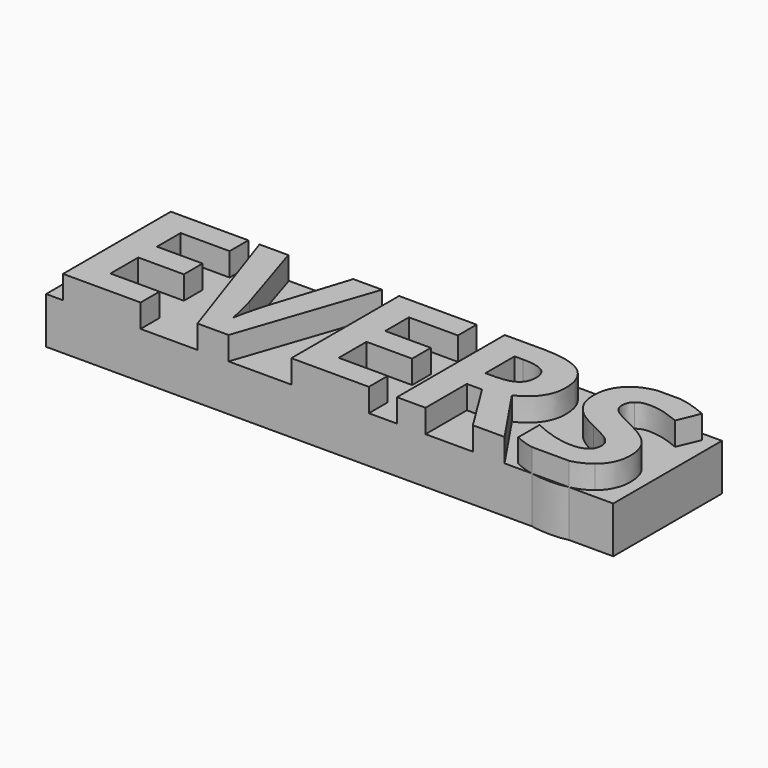
from build123d import *

# Parameters (mm, degrees)
F1_DEPTH = 20
F2_DEPTH = 30


with BuildPart() as f1:
    # F0 (on Top) → F1 (new body)
    with BuildSketch(Plane.XY):
        with BuildLine():
            Line((226.0634413067, 34.8499827087), (216.4325309619, 34.8499827087))
            add(Edge.make_bspline(
                [(206.7677307787, 30.7868890413), (210.5508569795, 33.9763129552), (216.4325309619, 34.8499827087)],
                knots=[0, 0, 0, 0.7260728655, 0.7260728655, 0.7260728655], degree=2))
            add(Edge.make_bspline(
                [(201.5573360914, 18.699026914), (201.5573360914, 26.3941840312), (206.7677307787, 30.7868890413)],
                knots=[0, 0, 0, 1, 1, 1], degree=2))
            add(Edge.make_bspline(
                [(203.1420060084, 11.5743509668), (201.5573360914, 14.6295945669), (201.5573360914, 18.699026914)],
                knots=[0, 0, 0, 1, 1, 1], degree=2))
            add(Edge.make_bspline(
                [(207.3825827065, 6.2245053268), (204.7266759255, 8.5191073667), (203.1420060084, 11.5743509668)],
                knots=[0, 0, 0, 1, 1, 1], degree=2))
            add(Edge.make_bspline(
                [(215.3376256902, 1.4324634976), (210.0384894875, 3.9299032869), (207.3825827065, 6.2245053268)],
                knots=[0, 0, 0, 1, 1, 1], degree=2))
            add(Edge.make_bspline(
                [(222.848961097, -2.491179217), (221.0044053136, -1.2678140411), (215.3376256902, 1.4324634976)],
                knots=[0, 0, 0, 1, 1, 1], degree=2))
            add(Edge.make_bspline(
                [(225.6443188307, -5.0456671233), (224.6935168805, -3.714544393), (222.848961097, -2.491179217)],
                knots=[0, 0, 0, 1, 1, 1], degree=2))
            add(Edge.make_bspline(
                [(226.595120781, -8.0755560048), (226.595120781, -6.3767898537), (225.6443188307, -5.0456671233)],
                knots=[0, 0, 0, 1, 1, 1], degree=2))
            add(Edge.make_bspline(
                [(224.4336310141, -12.6710987643), (226.595120781, -11.1307996049), (226.595120781, -8.0755560048)],
                knots=[0, 0, 0, 1, 1, 1], degree=2))
            add(Edge.make_bspline(
                [(218.2407409782, -14.2113979236), (222.2721412472, -14.2113979236), (224.4336310141, -12.6710987643)],
                knots=[0, 0, 0, 1, 1, 1], degree=2))
            add(Edge.make_bspline(
                [(210.8054697273, -13.1464997394), (214.8685633947, -14.2113979236), (218.2407409782, -14.2113979236)],
                knots=[0, 0, 0, 1, 1, 1], degree=2))
            add(Edge.make_bspline(
                [(200.8854360465, -9.4573881725), (206.74237606, -12.0816015551), (210.8054697273, -13.1464997394)],
                knots=[0, 0, 0, 1, 1, 1], degree=2))
            Line((200.8854360465, -9.4573881725), (200.8854360465, -20.8670115753))
            add(Edge.make_bspline(
                [(208.9146939264, -23.567289114), (204.6061801967, -22.6942809445), (200.8854360465, -20.8670115753)],
                knots=[0.477766543, 0.477766543, 0.477766543, 1, 1, 1], degree=2))
            Line((208.9146939264, -23.567289114), (224.9636813139, -23.567289114))
            add(Edge.make_bspline(
                [(232.9908485663, -19.8464841487), (229.7172834283, -22.4660710661), (224.9636813139, -23.567289114)],
                knots=[0, 0, 0, 0.5796214889, 0.5796214889, 0.5796214889], degree=2))
            add(Edge.make_bspline(
                [(238.6386121507, -7.479720116), (238.6386121507, -15.3270055453), (232.9908485663, -19.8464841487)],
                knots=[0, 0, 0, 1, 1, 1], degree=2))
            add(Edge.make_bspline(
                [(235.6277393083, 2.0853475035), (238.6386121507, -1.8129404925), (238.6386121507, -7.479720116)],
                knots=[0, 0, 0, 1, 1, 1], degree=2))
            add(Edge.make_bspline(
                [(224.4906791311, 9.8755848157), (232.6168664658, 5.9836354994), (235.6277393083, 2.0853475035)],
                knots=[0, 0, 0, 1, 1, 1], degree=2))
            add(Edge.make_bspline(
                [(216.7131191782, 13.9323398034), (218.3548372122, 12.8040548225), (224.4906791311, 9.8755848157)],
                knots=[0, 0, 0, 1, 1, 1], degree=2))
            add(Edge.make_bspline(
                [(214.3170982636, 16.271312601), (215.0714011441, 15.0606247844), (216.7131191782, 13.9323398034)],
                knots=[0, 0, 0, 1, 1, 1], degree=2))
            add(Edge.make_bspline(
                [(213.562795383, 19.1047024127), (213.562795383, 17.4820004177), (214.3170982636, 16.271312601)],
                knots=[0, 0, 0, 1, 1, 1], degree=2))
            add(Edge.make_bspline(
                [(215.4263672055, 23.3389404311), (213.562795383, 21.7162384361), (213.562795383, 19.1047024127)],
                knots=[0, 0, 0, 1, 1, 1], degree=2))
            add(Edge.make_bspline(
                [(220.7762128455, 24.9616424262), (217.289939028, 24.9616424262), (215.4263672055, 23.3389404311)],
                knots=[0, 0, 0, 1, 1, 1], degree=2))
            add(Edge.make_bspline(
                [(226.7345717337, 24.2073395457), (223.7046828523, 24.9616424262), (220.7762128455, 24.9616424262)],
                knots=[0, 0, 0, 1, 1, 1], degree=2))
            add(Edge.make_bspline(
                [(234.4043741323, 21.5514327647), (229.7644606151, 23.4530366652), (226.7345717337, 24.2073395457)],
                knots=[0, 0, 0, 1, 1, 1], degree=2))
            Line((234.4043741323, 21.5514327647), (238.3597102453, 31.1101617044))
            add(Edge.make_bspline(
                [(229.7834766541, 34.1146958672), (233.8846023995, 33.0497976829), (238.3597102453, 31.1101617044)],
                knots=[0, 0, 0, 1, 1, 1], degree=2))
            add(Edge.make_bspline(
                [(226.0634413067, 34.8499827087), (227.9640066407, 34.5871393946), (229.7834766541, 34.1146958672)],
                knots=[0.5563486403, 0.5563486403, 0.5563486403, 1, 1, 1], degree=2))
        make_face()
        Polygon((105.4502749612, 34.3555656946), (105.4502749612, -23.567289114), (138.8044073756, -23.567289114), (138.8044073756, -13.4254016448), (117.7346361583, -13.4254016448), (117.7346361583, 1.5085276536), (137.3465110519, 1.5085276536), (137.3465110519, 11.5743509668), (117.7346361583, 11.5743509668), (117.7346361583, 24.2897423814), (138.8044073756, 24.2897423814), (138.8044073756, 34.3555656946), align=None)
        with BuildLine():
            Line((45.4356558621, 34.3555656946), (65.0855628337, -23.567289114))
            Line((65.0855628337, -23.567289114), (78.4728542931, -23.567289114))
            Line((78.4728542931, -23.567289114), (98.1607933427, 34.3555656946))
            Line((98.1607933427, 34.3555656946), (85.7623359116, 34.3555656946))
            Line((85.7623359116, 34.3555656946), (74.7964200855, -0.1141743414))
            add(Edge.make_bspline(
                [(71.8172406414, -12.867597834), (72.2609482182, -9.2291957044), (74.7964200855, -0.1141743414)],
                knots=[0, 0, 0, 1, 1, 1], degree=2))
            add(Edge.make_bspline(
                [(70.6128915044, -7.2261729292), (71.5890481733, -11.2829279169), (71.8172406414, -12.867597834)],
                knots=[0, 0, 0, 1, 1, 1], degree=2))
            add(Edge.make_bspline(
                [(68.7366423226, -0.1141743414), (69.6367348355, -3.1694179415), (70.6128915044, -7.2261729292)],
                knots=[0, 0, 0, 1, 1, 1], degree=2))
            Line((68.7366423226, -0.1141743414), (57.8341132932, 34.3555656946))
            Line((57.8341132932, 34.3555656946), (45.4356558621, 34.3555656946))
        make_face()
        with BuildLine():
            Line((216.4325309619, 34.8499827087), (0, 34.8499827087))
            Line((0, 34.8499827087), (0, -23.567289114))
            Line((0, -23.567289114), (7.2894816185, -23.567289114))
            Line((7.2894816185, -23.567289114), (7.2894816185, 34.3555656946))
            Line((7.2894816185, 34.3555656946), (40.6436140329, 34.3555656946))
            Line((40.6436140329, 34.3555656946), (40.6436140329, 24.2897423814))
            Line((40.6436140329, 24.2897423814), (19.5738428156, 24.2897423814))
            Line((19.5738428156, 24.2897423814), (19.5738428156, 11.5743509668))
            Line((19.5738428156, 11.5743509668), (39.1857177092, 11.5743509668))
            Line((39.1857177092, 11.5743509668), (39.1857177092, 1.5085276536))
            Line((39.1857177092, 1.5085276536), (19.5738428156, 1.5085276536))
            Line((19.5738428156, 1.5085276536), (19.5738428156, -13.4254016448))
            Line((19.5738428156, -13.4254016448), (40.6436140329, -13.4254016448))
            Line((40.6436140329, -13.4254016448), (40.6436140329, -23.567289114))
            Line((40.6436140329, -23.567289114), (65.0855628337, -23.567289114))
            Line((65.0855628337, -23.567289114), (45.4356558621, 34.3555656946))
            Line((45.4356558621, 34.3555656946), (57.8341132932, 34.3555656946))
            Line((57.8341132932, 34.3555656946), (68.7366423226, -0.1141743414))
            add(Edge.make_bspline(
                [(68.7366423226, -0.1141743414), (69.6367348355, -3.1694179415), (70.6128915044, -7.2261729292)],
                knots=[0, 0, 0, 1, 1, 1], degree=2))
            add(Edge.make_bspline(
                [(70.6128915044, -7.2261729292), (71.5890481733, -11.2829279169), (71.8172406414, -12.867597834)],
                knots=[0, 0, 0, 1, 1, 1], degree=2))
            add(Edge.make_bspline(
                [(71.8172406414, -12.867597834), (72.2609482182, -9.2291957044), (74.7964200855, -0.1141743414)],
                knots=[0, 0, 0, 1, 1, 1], degree=2))
            Line((74.7964200855, -0.1141743414), (85.7623359116, 34.3555656946))
            Line((85.7623359116, 34.3555656946), (98.1607933427, 34.3555656946))
            Line((98.1607933427, 34.3555656946), (78.4728542931, -23.567289114))
            Line((78.4728542931, -23.567289114), (105.4502749612, -23.567289114))
            Line((105.4502749612, -23.567289114), (105.4502749612, 34.3555656946))
            Line((105.4502749612, 34.3555656946), (138.8044073756, 34.3555656946))
            Line((138.8044073756, 34.3555656946), (138.8044073756, 24.2897423814))
            Line((138.8044073756, 24.2897423814), (117.7346361583, 24.2897423814))
            Line((117.7346361583, 24.2897423814), (117.7346361583, 11.5743509668))
            Line((117.7346361583, 11.5743509668), (137.3465110519, 11.5743509668))
            Line((137.3465110519, 11.5743509668), (137.3465110519, 1.5085276536))
            Line((137.3465110519, 1.5085276536), (117.7346361583, 1.5085276536))
            Line((117.7346361583, 1.5085276536), (117.7346361583, -13.4254016448))
            Line((117.7346361583, -13.4254016448), (138.8044073756, -13.4254016448))
            Line((138.8044073756, -13.4254016448), (138.8044073756, -23.567289114))
            Line((138.8044073756, -23.567289114), (150.8859308233, -23.567289114))
            Line((150.8859308233, -23.567289114), (150.8859308233, 34.3555656946))
            Line((150.8859308233, 34.3555656946), (167.7594961002, 34.3555656946))
            add(Edge.make_bspline(
                [(167.7594961002, 34.3555656946), (179.5747950018, 34.3555656946), (185.2352359456, 30.0579408795)],
                knots=[0, 0, 0, 1, 1, 1], degree=2))
            add(Edge.make_bspline(
                [(185.2352359456, 30.0579408795), (190.8956768893, 25.7603160644), (190.8956768893, 17.0002607629)],
                knots=[0, 0, 0, 1, 1, 1], degree=2))
            add(Edge.make_bspline(
                [(190.8956768893, 17.0002607629), (190.8956768893, 11.8912849503), (188.0876417963, 7.9105941186)],
                knots=[0, 0, 0, 1, 1, 1], degree=2))
            add(Edge.make_bspline(
                [(188.0876417963, 7.9105941186), (185.2796067033, 3.9299032869), (180.1199214533, 1.673333325)],
                knots=[0, 0, 0, 1, 1, 1], degree=2))
            add(Edge.make_bspline(
                [(180.1199214533, 1.673333325), (193.2029562886, -17.8624774126), (197.1582924016, -23.567289114)],
                knots=[0, 0, 0, 1, 1, 1], degree=2))
            Line((197.1582924016, -23.567289114), (208.9146939264, -23.567289114))
            add(Edge.make_bspline(
                [(208.9146939264, -23.567289114), (204.6061801967, -22.6942809445), (200.8854360465, -20.8670115753)],
                knots=[0.477766543, 0.477766543, 0.477766543, 1, 1, 1], degree=2))
            Line((200.8854360465, -20.8670115753), (200.8854360465, -9.4573881725))
            add(Edge.make_bspline(
                [(200.8854360465, -9.4573881725), (206.74237606, -12.0816015551), (210.8054697273, -13.1464997394)],
                knots=[0, 0, 0, 1, 1, 1], degree=2))
            add(Edge.make_bspline(
                [(210.8054697273, -13.1464997394), (214.8685633947, -14.2113979236), (218.2407409782, -14.2113979236)],
                knots=[0, 0, 0, 1, 1, 1], degree=2))
            add(Edge.make_bspline(
                [(218.2407409782, -14.2113979236), (222.2721412472, -14.2113979236), (224.4336310141, -12.6710987643)],
                knots=[0, 0, 0, 1, 1, 1], degree=2))
            add(Edge.make_bspline(
                [(224.4336310141, -12.6710987643), (226.595120781, -11.1307996049), (226.595120781, -8.0755560048)],
                knots=[0, 0, 0, 1, 1, 1], degree=2))
            add(Edge.make_bspline(
                [(226.595120781, -8.0755560048), (226.595120781, -6.3767898537), (225.6443188307, -5.0456671233)],
                knots=[0, 0, 0, 1, 1, 1], degree=2))
            add(Edge.make_bspline(
                [(225.6443188307, -5.0456671233), (224.6935168805, -3.714544393), (222.848961097, -2.491179217)],
                knots=[0, 0, 0, 1, 1, 1], degree=2))
            add(Edge.make_bspline(
                [(222.848961097, -2.491179217), (221.0044053136, -1.2678140411), (215.3376256902, 1.4324634976)],
                knots=[0, 0, 0, 1, 1, 1], degree=2))
            add(Edge.make_bspline(
                [(215.3376256902, 1.4324634976), (210.0384894875, 3.9299032869), (207.3825827065, 6.2245053268)],
                knots=[0, 0, 0, 1, 1, 1], degree=2))
            add(Edge.make_bspline(
                [(207.3825827065, 6.2245053268), (204.7266759255, 8.5191073667), (203.1420060084, 11.5743509668)],
                knots=[0, 0, 0, 1, 1, 1], degree=2))
            add(Edge.make_bspline(
                [(203.1420060084, 11.5743509668), (201.5573360914, 14.6295945669), (201.5573360914, 18.699026914)],
                knots=[0, 0, 0, 1, 1, 1], degree=2))
            add(Edge.make_bspline(
                [(201.5573360914, 18.699026914), (201.5573360914, 26.3941840312), (206.7677307787, 30.7868890413)],
                knots=[0, 0, 0, 1, 1, 1], degree=2))
            add(Edge.make_bspline(
                [(206.7677307787, 30.7868890413), (210.5508569795, 33.9763129552), (216.4325309619, 34.8499827087)],
                knots=[0, 0, 0, 0.7260728655, 0.7260728655, 0.7260728655], degree=2))
        make_face()
        with BuildLine():
            Line((243.8997162753, 34.8499827087), (226.0634413067, 34.8499827087))
            add(Edge.make_bspline(
                [(226.0634413067, 34.8499827087), (227.9640066407, 34.5871393946), (229.7834766541, 34.1146958672)],
                knots=[0.5563486403, 0.5563486403, 0.5563486403, 1, 1, 1], degree=2))
            add(Edge.make_bspline(
                [(229.7834766541, 34.1146958672), (233.8846023995, 33.0497976829), (238.3597102453, 31.1101617044)],
                knots=[0, 0, 0, 1, 1, 1], degree=2))
            Line((238.3597102453, 31.1101617044), (234.4043741323, 21.5514327647))
            add(Edge.make_bspline(
                [(234.4043741323, 21.5514327647), (229.7644606151, 23.4530366652), (226.7345717337, 24.2073395457)],
                knots=[0, 0, 0, 1, 1, 1], degree=2))
            add(Edge.make_bspline(
                [(226.7345717337, 24.2073395457), (223.7046828523, 24.9616424262), (220.7762128455, 24.9616424262)],
                knots=[0, 0, 0, 1, 1, 1], degree=2))
            add(Edge.make_bspline(
                [(220.7762128455, 24.9616424262), (217.289939028, 24.9616424262), (215.4263672055, 23.3389404311)],
                knots=[0, 0, 0, 1, 1, 1], degree=2))
            add(Edge.make_bspline(
                [(215.4263672055, 23.3389404311), (213.562795383, 21.7162384361), (213.562795383, 19.1047024127)],
                knots=[0, 0, 0, 1, 1, 1], degree=2))
            add(Edge.make_bspline(
                [(213.562795383, 19.1047024127), (213.562795383, 17.4820004177), (214.3170982636, 16.271312601)],
                knots=[0, 0, 0, 1, 1, 1], degree=2))
            add(Edge.make_bspline(
                [(214.3170982636, 16.271312601), (215.0714011441, 15.0606247844), (216.7131191782, 13.9323398034)],
                knots=[0, 0, 0, 1, 1, 1], degree=2))
            add(Edge.make_bspline(
                [(216.7131191782, 13.9323398034), (218.3548372122, 12.8040548225), (224.4906791311, 9.8755848157)],
                knots=[0, 0, 0, 1, 1, 1], degree=2))
            add(Edge.make_bspline(
                [(224.4906791311, 9.8755848157), (232.6168664658, 5.9836354994), (235.6277393083, 2.0853475035)],
                knots=[0, 0, 0, 1, 1, 1], degree=2))
            add(Edge.make_bspline(
                [(235.6277393083, 2.0853475035), (238.6386121507, -1.8129404925), (238.6386121507, -7.479720116)],
                knots=[0, 0, 0, 1, 1, 1], degree=2))
            add(Edge.make_bspline(
                [(238.6386121507, -7.479720116), (238.6386121507, -15.3270055453), (232.9908485663, -19.8464841487)],
                knots=[0, 0, 0, 1, 1, 1], degree=2))
            add(Edge.make_bspline(
                [(232.9908485663, -19.8464841487), (229.7172834283, -22.4660710661), (224.9636813139, -23.567289114)],
                knots=[0, 0, 0, 0.5796214889, 0.5796214889, 0.5796214889], degree=2))
            Line((224.9636813139, -23.567289114), (243.8997162753, -23.567289114))
            Line((243.8997162753, -23.567289114), (243.8997162753, 34.8499827087))
        make_face()
        Polygon((163.1702920204, -23.567289114), (183.5301311148, -23.567289114), (169.6991320787, -1.3438781971), (163.1702920204, -1.3438781971), align=None)
        with BuildLine():
            add(Edge.make_bspline(
                [(216.4325309619, 34.8499827087), (218.6515232654, 35.1795940514), (221.169210985, 35.1795940514)],
                knots=[0.7260728655, 0.7260728655, 0.7260728655, 1, 1, 1], degree=2))
            Line((216.4325309619, 34.8499827087), (226.0634413067, 34.8499827087))
            add(Edge.make_bspline(
                [(221.169210985, 35.1795940514), (223.6800902449, 35.1795940514), (226.0634413067, 34.8499827087)],
                knots=[0, 0, 0, 0.5563486403, 0.5563486403, 0.5563486403], degree=2))
        make_face()
        with BuildLine():
            add(Edge.make_bspline(
                [(224.9636813139, -23.567289114), (221.5160655556, -24.3659627522), (217.289939028, -24.3659627522)],
                knots=[0.5796214889, 0.5796214889, 0.5796214889, 1, 1, 1], degree=2))
            Line((224.9636813139, -23.567289114), (208.9146939264, -23.567289114))
            add(Edge.make_bspline(
                [(217.289939028, -24.3659627522), (212.8563481466, -24.3659627522), (208.9146939264, -23.567289114)],
                knots=[0, 0, 0, 0.477766543, 0.477766543, 0.477766543], degree=2))
        make_face()
        with BuildLine():
            Line((183.5301311148, -23.567289114), (197.1582924016, -23.567289114))
            add(Edge.make_bspline(
                [(180.1199214533, 1.673333325), (193.2029562886, -17.8624774126), (197.1582924016, -23.567289114)],
                knots=[0, 0, 0, 1, 1, 1], degree=2))
            add(Edge.make_bspline(
                [(188.0876417963, 7.9105941186), (185.2796067033, 3.9299032869), (180.1199214533, 1.673333325)],
                knots=[0, 0, 0, 1, 1, 1], degree=2))
            add(Edge.make_bspline(
                [(190.8956768893, 17.0002607629), (190.8956768893, 11.8912849503), (188.0876417963, 7.9105941186)],
                knots=[0, 0, 0, 1, 1, 1], degree=2))
            add(Edge.make_bspline(
                [(185.2352359456, 30.0579408795), (190.8956768893, 25.7603160644), (190.8956768893, 17.0002607629)],
                knots=[0, 0, 0, 1, 1, 1], degree=2))
            add(Edge.make_bspline(
                [(167.7594961002, 34.3555656946), (179.5747950018, 34.3555656946), (185.2352359456, 30.0579408795)],
                knots=[0, 0, 0, 1, 1, 1], degree=2))
            Line((167.7594961002, 34.3555656946), (150.8859308233, 34.3555656946))
            Line((150.8859308233, 34.3555656946), (150.8859308233, -23.567289114))
            Line((150.8859308233, -23.567289114), (163.1702920204, -23.567289114))
            Line((163.1702920204, -23.567289114), (163.1702920204, -1.3438781971))
            Line((163.1702920204, -1.3438781971), (169.6991320787, -1.3438781971))
            Line((169.6991320787, -1.3438781971), (183.5301311148, -23.567289114))
        make_face()
        with BuildLine():
            Line((167.1256281334, 8.6458809601), (163.1702920204, 8.6458809601))
            Line((163.1702920204, 8.6458809601), (163.1702920204, 24.2897423814))
            Line((163.1702920204, 24.2897423814), (166.8974356653, 24.2897423814))
            add(Edge.make_bspline(
                [(175.6638296465, 22.5466054726), (172.8304398348, 24.2897423814), (166.8974356653, 24.2897423814)],
                knots=[0, 0, 0, 1, 1, 1], degree=2))
            add(Edge.make_bspline(
                [(178.4972194582, 16.6833267795), (178.4972194582, 20.8034685638), (175.6638296465, 22.5466054726)],
                knots=[0, 0, 0, 1, 1, 1], degree=2))
            add(Edge.make_bspline(
                [(175.7272164432, 10.5855169386), (178.4972194582, 12.5251529171), (178.4972194582, 16.6833267795)],
                knots=[0, 0, 0, 1, 1, 1], degree=2))
            add(Edge.make_bspline(
                [(167.1256281334, 8.6458809601), (172.9572134282, 8.6458809601), (175.7272164432, 10.5855169386)],
                knots=[0, 0, 0, 1, 1, 1], degree=2))
        make_face(mode=Mode.SUBTRACT)
        Polygon((7.2894816185, 34.3555656946), (7.2894816185, -23.567289114), (40.6436140329, -23.567289114), (40.6436140329, -13.4254016448), (19.5738428156, -13.4254016448), (19.5738428156, 1.5085276536), (39.1857177092, 1.5085276536), (39.1857177092, 11.5743509668), (19.5738428156, 11.5743509668), (19.5738428156, 24.2897423814), (40.6436140329, 24.2897423814), (40.6436140329, 34.3555656946), align=None)
    extrude(amount=F1_DEPTH)

    # F0 (on Top) → F2 (join)
    with BuildSketch(Plane.XY):
        Polygon((7.2894816185, 34.3555656946), (7.2894816185, -23.567289114), (40.6436140329, -23.567289114), (40.6436140329, -13.4254016448), (19.5738428156, -13.4254016448), (19.5738428156, 1.5085276536), (39.1857177092, 1.5085276536), (39.1857177092, 11.5743509668), (19.5738428156, 11.5743509668), (19.5738428156, 24.2897423814), (40.6436140329, 24.2897423814), (40.6436140329, 34.3555656946), align=None)
        with BuildLine():
            Line((45.4356558621, 34.3555656946), (65.0855628337, -23.567289114))
            Line((65.0855628337, -23.567289114), (78.4728542931, -23.567289114))
            Line((78.4728542931, -23.567289114), (98.1607933427, 34.3555656946))
            Line((98.1607933427, 34.3555656946), (85.7623359116, 34.3555656946))
            Line((85.7623359116, 34.3555656946), (74.7964200855, -0.1141743414))
            add(Edge.make_bspline(
                [(71.8172406414, -12.867597834), (72.2609482182, -9.2291957044), (74.7964200855, -0.1141743414)],
                knots=[0, 0, 0, 1, 1, 1], degree=2))
            add(Edge.make_bspline(
                [(70.6128915044, -7.2261729292), (71.5890481733, -11.2829279169), (71.8172406414, -12.867597834)],
                knots=[0, 0, 0, 1, 1, 1], degree=2))
            add(Edge.make_bspline(
                [(68.7366423226, -0.1141743414), (69.6367348355, -3.1694179415), (70.6128915044, -7.2261729292)],
                knots=[0, 0, 0, 1, 1, 1], degree=2))
            Line((68.7366423226, -0.1141743414), (57.8341132932, 34.3555656946))
            Line((57.8341132932, 34.3555656946), (45.4356558621, 34.3555656946))
        make_face()
        Polygon((105.4502749612, 34.3555656946), (105.4502749612, -23.567289114), (138.8044073756, -23.567289114), (138.8044073756, -13.4254016448), (117.7346361583, -13.4254016448), (117.7346361583, 1.5085276536), (137.3465110519, 1.5085276536), (137.3465110519, 11.5743509668), (117.7346361583, 11.5743509668), (117.7346361583, 24.2897423814), (138.8044073756, 24.2897423814), (138.8044073756, 34.3555656946), align=None)
        with BuildLine():
            Line((183.5301311148, -23.567289114), (197.1582924016, -23.567289114))
            add(Edge.make_bspline(
                [(180.1199214533, 1.673333325), (193.2029562886, -17.8624774126), (197.1582924016, -23.567289114)],
                knots=[0, 0, 0, 1, 1, 1], degree=2))
            add(Edge.make_bspline(
                [(188.0876417963, 7.9105941186), (185.2796067033, 3.9299032869), (180.1199214533, 1.673333325)],
                knots=[0, 0, 0, 1, 1, 1], degree=2))
            add(Edge.make_bspline(
                [(190.8956768893, 17.0002607629), (190.8956768893, 11.8912849503), (188.0876417963, 7.9105941186)],
                knots=[0, 0, 0, 1, 1, 1], degree=2))
            add(Edge.make_bspline(
                [(185.2352359456, 30.0579408795), (190.8956768893, 25.7603160644), (190.8956768893, 17.0002607629)],
                knots=[0, 0, 0, 1, 1, 1], degree=2))
            add(Edge.make_bspline(
                [(167.7594961002, 34.3555656946), (179.5747950018, 34.3555656946), (185.2352359456, 30.0579408795)],
                knots=[0, 0, 0, 1, 1, 1], degree=2))
            Line((167.7594961002, 34.3555656946), (150.8859308233, 34.3555656946))
            Line((150.8859308233, 34.3555656946), (150.8859308233, -23.567289114))
            Line((150.8859308233, -23.567289114), (163.1702920204, -23.567289114))
            Line((163.1702920204, -23.567289114), (163.1702920204, -1.3438781971))
            Line((163.1702920204, -1.3438781971), (169.6991320787, -1.3438781971))
            Line((169.6991320787, -1.3438781971), (183.5301311148, -23.567289114))
        make_face()
        with BuildLine():
            Line((167.1256281334, 8.6458809601), (163.1702920204, 8.6458809601))
            Line((163.1702920204, 8.6458809601), (163.1702920204, 24.2897423814))
            Line((163.1702920204, 24.2897423814), (166.8974356653, 24.2897423814))
            add(Edge.make_bspline(
                [(175.6638296465, 22.5466054726), (172.8304398348, 24.2897423814), (166.8974356653, 24.2897423814)],
                knots=[0, 0, 0, 1, 1, 1], degree=2))
            add(Edge.make_bspline(
                [(178.4972194582, 16.6833267795), (178.4972194582, 20.8034685638), (175.6638296465, 22.5466054726)],
                knots=[0, 0, 0, 1, 1, 1], degree=2))
            add(Edge.make_bspline(
                [(175.7272164432, 10.5855169386), (178.4972194582, 12.5251529171), (178.4972194582, 16.6833267795)],
                knots=[0, 0, 0, 1, 1, 1], degree=2))
            add(Edge.make_bspline(
                [(167.1256281334, 8.6458809601), (172.9572134282, 8.6458809601), (175.7272164432, 10.5855169386)],
                knots=[0, 0, 0, 1, 1, 1], degree=2))
        make_face(mode=Mode.SUBTRACT)
        with BuildLine():
            Line((226.0634413067, 34.8499827087), (216.4325309619, 34.8499827087))
            add(Edge.make_bspline(
                [(206.7677307787, 30.7868890413), (210.5508569795, 33.9763129552), (216.4325309619, 34.8499827087)],
                knots=[0, 0, 0, 0.7260728655, 0.7260728655, 0.7260728655], degree=2))
            add(Edge.make_bspline(
                [(201.5573360914, 18.699026914), (201.5573360914, 26.3941840312), (206.7677307787, 30.7868890413)],
                knots=[0, 0, 0, 1, 1, 1], degree=2))
            add(Edge.make_bspline(
                [(203.1420060084, 11.5743509668), (201.5573360914, 14.6295945669), (201.5573360914, 18.699026914)],
                knots=[0, 0, 0, 1, 1, 1], degree=2))
            add(Edge.make_bspline(
                [(207.3825827065, 6.2245053268), (204.7266759255, 8.5191073667), (203.1420060084, 11.5743509668)],
                knots=[0, 0, 0, 1, 1, 1], degree=2))
            add(Edge.make_bspline(
                [(215.3376256902, 1.4324634976), (210.0384894875, 3.9299032869), (207.3825827065, 6.2245053268)],
                knots=[0, 0, 0, 1, 1, 1], degree=2))
            add(Edge.make_bspline(
                [(222.848961097, -2.491179217), (221.0044053136, -1.2678140411), (215.3376256902, 1.4324634976)],
                knots=[0, 0, 0, 1, 1, 1], degree=2))
            add(Edge.make_bspline(
                [(225.6443188307, -5.0456671233), (224.6935168805, -3.714544393), (222.848961097, -2.491179217)],
                knots=[0, 0, 0, 1, 1, 1], degree=2))
            add(Edge.make_bspline(
                [(226.595120781, -8.0755560048), (226.595120781, -6.3767898537), (225.6443188307, -5.0456671233)],
                knots=[0, 0, 0, 1, 1, 1], degree=2))
            add(Edge.make_bspline(
                [(224.4336310141, -12.6710987643), (226.595120781, -11.1307996049), (226.595120781, -8.0755560048)],
                knots=[0, 0, 0, 1, 1, 1], degree=2))
            add(Edge.make_bspline(
                [(218.2407409782, -14.2113979236), (222.2721412472, -14.2113979236), (224.4336310141, -12.6710987643)],
                knots=[0, 0, 0, 1, 1, 1], degree=2))
            add(Edge.make_bspline(
                [(210.8054697273, -13.1464997394), (214.8685633947, -14.2113979236), (218.2407409782, -14.2113979236)],
                knots=[0, 0, 0, 1, 1, 1], degree=2))
            add(Edge.make_bspline(
                [(200.8854360465, -9.4573881725), (206.74237606, -12.0816015551), (210.8054697273, -13.1464997394)],
                knots=[0, 0, 0, 1, 1, 1], degree=2))
            Line((200.8854360465, -9.4573881725), (200.8854360465, -20.8670115753))
            add(Edge.make_bspline(
                [(208.9146939264, -23.567289114), (204.6061801967, -22.6942809445), (200.8854360465, -20.8670115753)],
                knots=[0.477766543, 0.477766543, 0.477766543, 1, 1, 1], degree=2))
            Line((208.9146939264, -23.567289114), (224.9636813139, -23.567289114))
            add(Edge.make_bspline(
                [(232.9908485663, -19.8464841487), (229.7172834283, -22.4660710661), (224.9636813139, -23.567289114)],
                knots=[0, 0, 0, 0.5796214889, 0.5796214889, 0.5796214889], degree=2))
            add(Edge.make_bspline(
                [(238.6386121507, -7.479720116), (238.6386121507, -15.3270055453), (232.9908485663, -19.8464841487)],
                knots=[0, 0, 0, 1, 1, 1], degree=2))
            add(Edge.make_bspline(
                [(235.6277393083, 2.0853475035), (238.6386121507, -1.8129404925), (238.6386121507, -7.479720116)],
                knots=[0, 0, 0, 1, 1, 1], degree=2))
            add(Edge.make_bspline(
                [(224.4906791311, 9.8755848157), (232.6168664658, 5.9836354994), (235.6277393083, 2.0853475035)],
                knots=[0, 0, 0, 1, 1, 1], degree=2))
            add(Edge.make_bspline(
                [(216.7131191782, 13.9323398034), (218.3548372122, 12.8040548225), (224.4906791311, 9.8755848157)],
                knots=[0, 0, 0, 1, 1, 1], degree=2))
            add(Edge.make_bspline(
                [(214.3170982636, 16.271312601), (215.0714011441, 15.0606247844), (216.7131191782, 13.9323398034)],
                knots=[0, 0, 0, 1, 1, 1], degree=2))
            add(Edge.make_bspline(
                [(213.562795383, 19.1047024127), (213.562795383, 17.4820004177), (214.3170982636, 16.271312601)],
                knots=[0, 0, 0, 1, 1, 1], degree=2))
            add(Edge.make_bspline(
                [(215.4263672055, 23.3389404311), (213.562795383, 21.7162384361), (213.562795383, 19.1047024127)],
                knots=[0, 0, 0, 1, 1, 1], degree=2))
            add(Edge.make_bspline(
                [(220.7762128455, 24.9616424262), (217.289939028, 24.9616424262), (215.4263672055, 23.3389404311)],
                knots=[0, 0, 0, 1, 1, 1], degree=2))
            add(Edge.make_bspline(
                [(226.7345717337, 24.2073395457), (223.7046828523, 24.9616424262), (220.7762128455, 24.9616424262)],
                knots=[0, 0, 0, 1, 1, 1], degree=2))
            add(Edge.make_bspline(
                [(234.4043741323, 21.5514327647), (229.7644606151, 23.4530366652), (226.7345717337, 24.2073395457)],
                knots=[0, 0, 0, 1, 1, 1], degree=2))
            Line((234.4043741323, 21.5514327647), (238.3597102453, 31.1101617044))
            add(Edge.make_bspline(
                [(229.7834766541, 34.1146958672), (233.8846023995, 33.0497976829), (238.3597102453, 31.1101617044)],
                knots=[0, 0, 0, 1, 1, 1], degree=2))
            add(Edge.make_bspline(
                [(226.0634413067, 34.8499827087), (227.9640066407, 34.5871393946), (229.7834766541, 34.1146958672)],
                knots=[0.5563486403, 0.5563486403, 0.5563486403, 1, 1, 1], degree=2))
        make_face()
    extrude(amount=F2_DEPTH)


solid = f1.part
